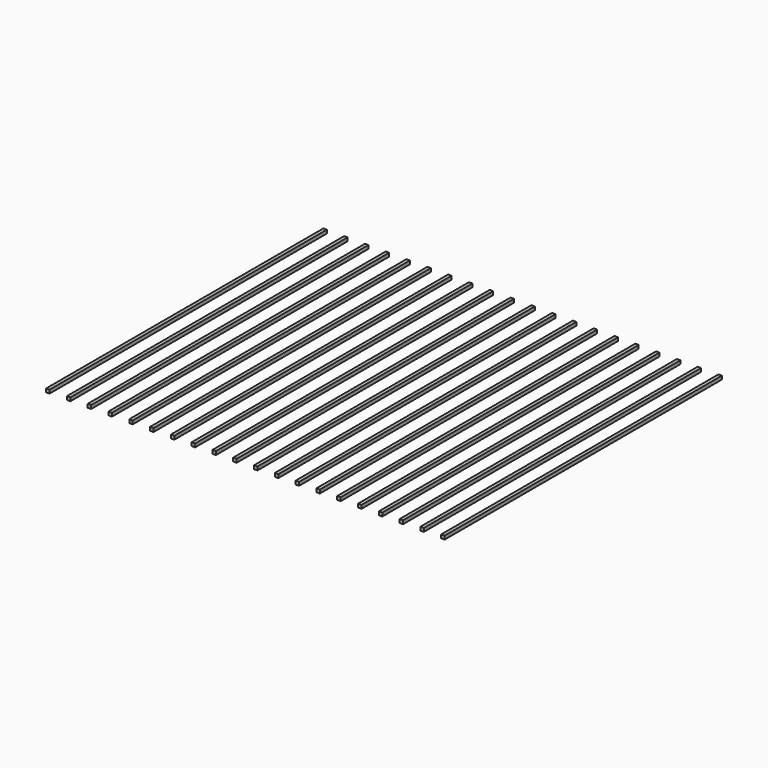
from build123d import *

# Parameters (mm, degrees)
F0_W     = 0.5
F0_H     = 50
F1_DEPTH = 0.5


with BuildPart() as f1:
    # F0 (on Top) → F1 (new body)
    with BuildSketch(Plane.XY):
        with Locations((-27.300507, 0)):
            Rectangle(F0_W, F0_H)
        with Locations((-24.300507, 0)):
            Rectangle(F0_W, F0_H)
        with Locations((-21.300507, 0)):
            Rectangle(F0_W, F0_H)
        with Locations((-18.300507, 0)):
            Rectangle(F0_W, F0_H)
        with Locations((-15.300507, 0)):
            Rectangle(F0_W, F0_H)
        with Locations((-12.300507, 0)):
            Rectangle(F0_W, F0_H)
        with Locations((-9.300507, 0)):
            Rectangle(F0_W, F0_H)
        with Locations((-6.300507, 0)):
            Rectangle(F0_W, F0_H)
        with Locations((-3.300507, 0)):
            Rectangle(F0_W, F0_H)
        with Locations((-0.300507, 0)):
            Rectangle(F0_W, F0_H)
        with Locations((2.699493, 0)):
            Rectangle(F0_W, F0_H)
        with Locations((5.699493, 0)):
            Rectangle(F0_W, F0_H)
        with Locations((8.699493, 0)):
            Rectangle(F0_W, F0_H)
        with Locations((11.699493, 0)):
            Rectangle(F0_W, F0_H)
        with Locations((14.699493, 0)):
            Rectangle(F0_W, F0_H)
        with Locations((17.699493, 0)):
            Rectangle(F0_W, F0_H)
        with Locations((20.699493, 0)):
            Rectangle(F0_W, F0_H)
        with Locations((23.699493, 0)):
            Rectangle(F0_W, F0_H)
        with Locations((26.699493, 0)):
            Rectangle(F0_W, F0_H)
        with Locations((29.699493, 0)):
            Rectangle(F0_W, F0_H)
    extrude(amount=F1_DEPTH)


solid = f1.part
